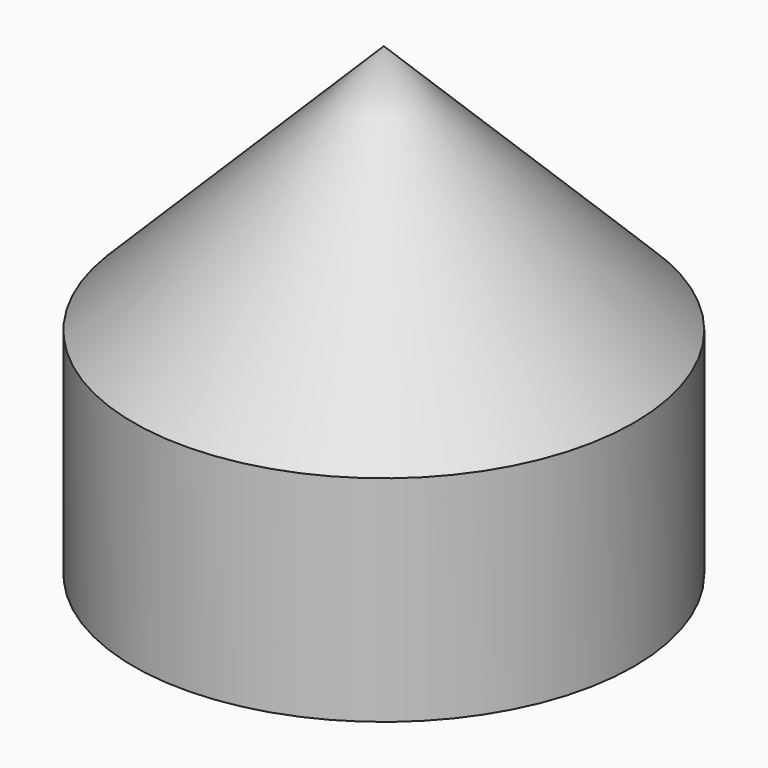
from build123d import *

# Parameters (mm, degrees)
F2_SIZE = 0.5


with BuildPart() as f1:
    # F0 (on Front) → F1 (revolve)
    with BuildSketch(Plane.XZ):
        Polygon((7, 6), (0, 13), (0, 7.232051), (3, 5.5), (3, 0), (7, 0), align=None)
    revolve(axis=Axis((0, 0, 7.232051), (0, 0, -1)))

    # F2
    f2_edges = [f1.edges().sort_by_distance(p)[0] for p in [
        (-3, 0, 0),
    ]]
    chamfer(f2_edges, length=F2_SIZE)


solid = f1.part
